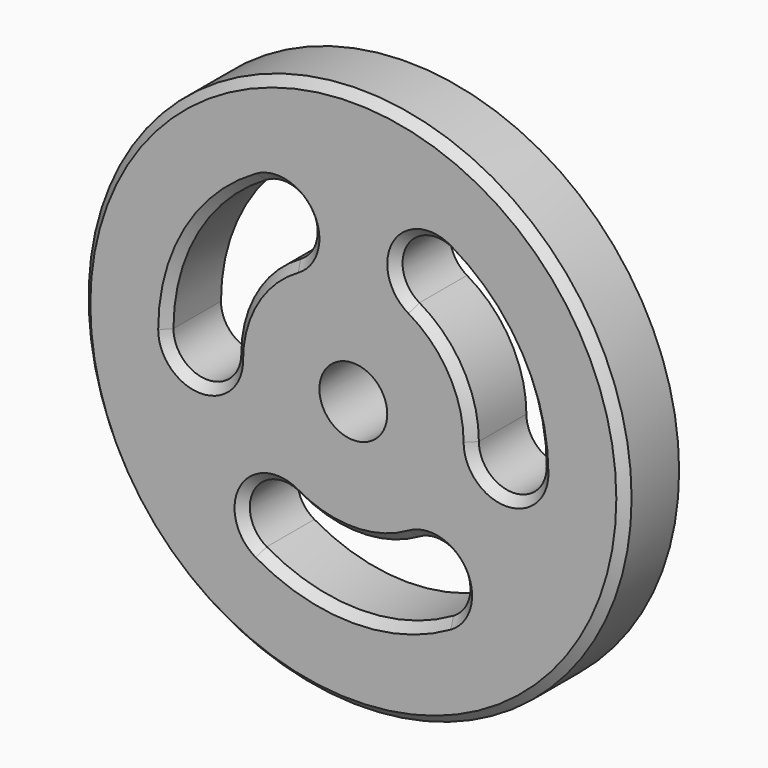
from build123d import *

# Parameters (mm, degrees)
F0_R     = 101.6
F2_DEPTH = 25.4
F1_R     = 12.7
F3_DEPTH = 25.401
F5_DEPTH = 25.401
F6_SIZE  = 3.175


with BuildPart() as f2:
    # F0 (on Front) → F2 (new body)
    with BuildSketch(Plane.XZ):
        Circle(F0_R)
    extrude(amount=F2_DEPTH)

    # F1 (on Front) → F3 (cut, through all)
    with BuildSketch(Plane.XZ):
        Circle(F1_R)
    extrude(amount=F3_DEPTH, mode=Mode.SUBTRACT)

    # F4 (on face) → F5 (cut, through all)
    with BuildSketch(Plane.XZ.offset(25.4)):
        with BuildLine():
            ThreePointArc((22.225, 38.494829), (38.494829, 22.225), (44.45, 0))
            ThreePointArc((44.45, 0), (57.15, -12.7), (69.85, 0))
            ThreePointArc((69.85, 0), (60.491874, 34.925), (34.925, 60.491874))
            ThreePointArc((34.925, 60.491874), (17.576477, 55.843352), (22.225, 38.494829))
        make_face()
        with BuildLine():
            ThreePointArc((-44.45, 0), (-38.494829, 22.225), (-22.225, 38.494829))
            ThreePointArc((-22.225, 38.494829), (-17.576477, 55.843352), (-34.925, 60.491874))
            ThreePointArc((-34.925, 60.491874), (-60.491874, 34.925), (-69.85, 0))
            ThreePointArc((-69.85, 0), (-57.15, -12.7), (-44.45, 0))
        make_face()
        with BuildLine():
            ThreePointArc((22.225, -38.494829), (0, -44.45), (-22.225, -38.494829))
            ThreePointArc((-22.225, -38.494829), (-39.573523, -43.143352), (-34.925, -60.491874))
            ThreePointArc((-34.925, -60.491874), (0, -69.85), (34.925, -60.491874))
            ThreePointArc((34.925, -60.491874), (39.573523, -43.143352), (22.225, -38.494829))
        make_face()
    extrude(amount=-F5_DEPTH, mode=Mode.SUBTRACT)

    # F6
    f6_edges = [f2.edges().sort_by_distance(p)[0] for p in [
        (-101.6, -25.4, 0),
        (-60.491874, -25.4, 34.925),
        (38.494829, -25.4, 22.225),
        (0, -25.4, -44.45),
    ]]
    chamfer(f6_edges, length=F6_SIZE)


solid = f2.part
